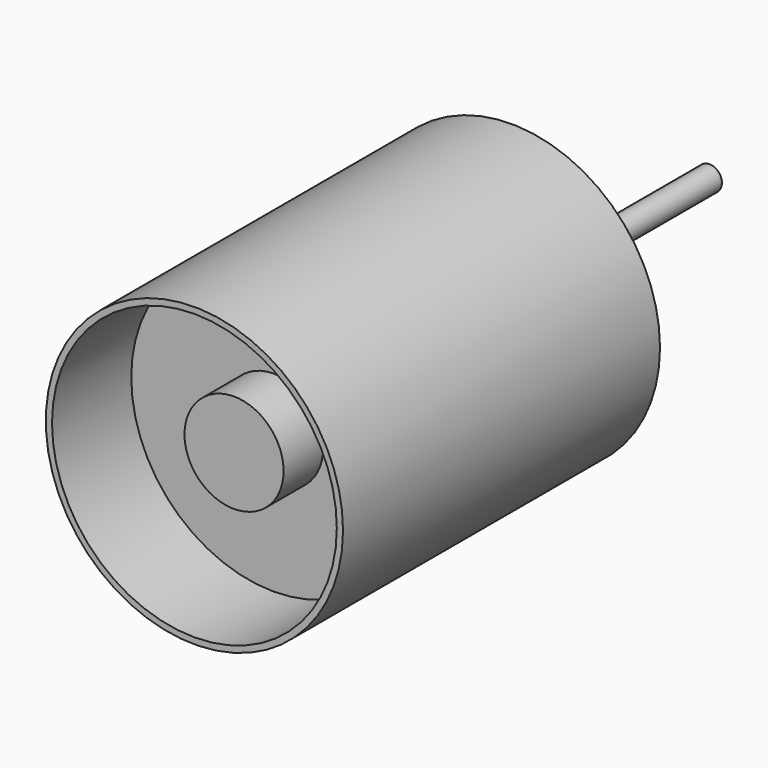
from build123d import *

# Parameters (mm, degrees)
F0_R     = 19.05
F0_R_2   = 18.25625
F1_DEPTH = 50.8
F2_R     = 6.35
F3_DEPTH = 44.45
F0_R_3   = 6.35
F4_DEPTH = 38.1
F5_R     = 1.5875
F6_DEPTH = 31.75


with BuildPart() as f1:
    # F0 (on Front) → F1 (new body)
    with BuildSketch(Plane.XZ):
        Circle(F0_R)
        Circle(F0_R_2, mode=Mode.SUBTRACT)
    extrude(amount=F1_DEPTH)



with BuildPart() as f3:
    # F2 (on Front) → F3 (new body)
    with BuildSketch(Plane.XZ):
        Circle(F2_R)
    extrude(amount=F3_DEPTH)


with BuildPart() as f1_1:
    add(f1.part)

    add(f3.part)  # F4 merges F3
    # F0 (on Front) → F4 (join)
    with BuildSketch(Plane.XZ):
        Circle(F0_R_2)
        Circle(F0_R_3, mode=Mode.SUBTRACT)
    extrude(amount=F4_DEPTH)

    # F5 (on Front) → F6 (join)
    with BuildSketch(Plane.XZ):
        Circle(F5_R)
    extrude(amount=-F6_DEPTH)


solid = f1_1.part
